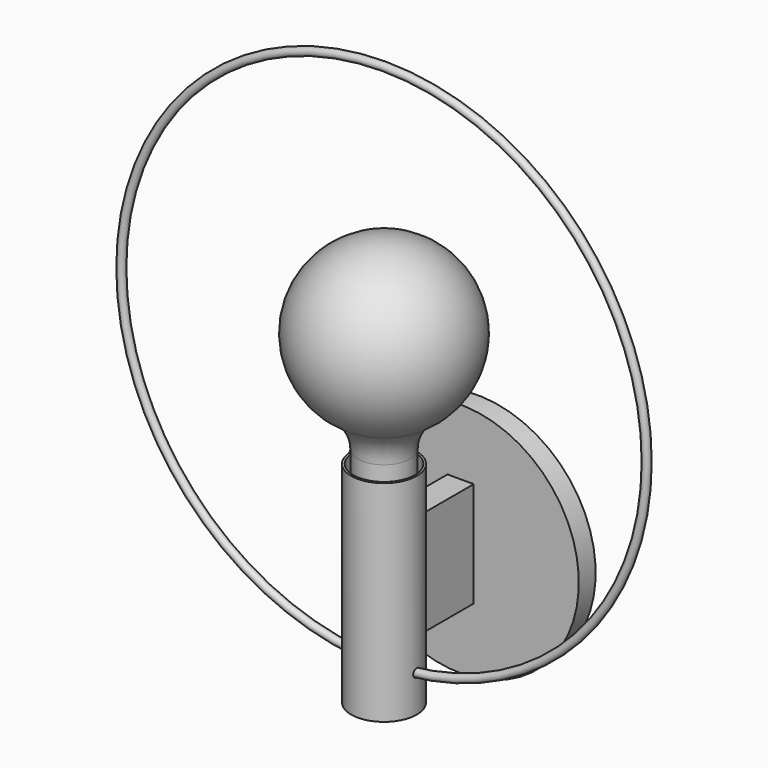
from build123d import *

# Parameters (mm, degrees)
F0_R           = 15.875
F0_R_2         = 14.859
F1_DEPTH       = 101.6
F2_DEPTH       = 21.59
F5_R           = 2.032
F6_DEPTH       = 39.6885
F6_DEPTH_BACK  = 39.6885
F8_R           = 1.905
F12_DEPTH      = 25.4
F12_DEPTH_BACK = 25.4


with BuildPart() as f1:
    # F0 (on Top) → F1 (new body)
    with BuildSketch(Plane.XY):
        Circle(F0_R)
        Circle(F0_R_2, mode=Mode.SUBTRACT)
    extrude(amount=F1_DEPTH)


with BuildPart() as f2:
    # F0 (on Top) → F2 (new body)
    with BuildSketch(Plane.XY):
        Circle(F0_R_2)
    extrude(amount=F2_DEPTH)


with BuildPart() as f4:
    # F3 (on Front) → F4 (revolve)
    with BuildSketch(Plane.XZ):
        with BuildLine():
            Line((0, 76.2), (0, 196.85))
            ThreePointArc((0, 196.85), (-38.080543697, 168.3414913675), (-21.4527027027, 123.7726931273))
            ThreePointArc((-21.4527027027, 123.7726931273), (-15.0307593846, 116.8762754651), (-12.7, 107.7455858283))
            Line((-12.7, 107.7455858283), (-12.7, 76.2))
            Line((-12.7, 76.2), (0, 76.2))
        make_face()
    revolve(axis=Axis((0, 0, 136.525), (0, 0, -1)))


with BuildPart() as f6_tool:
    # F5 (on Right) → F6 (new body, two sides)
    with BuildSketch(Plane.YZ) as f6_sk:
        with Locations((0, 17.78)):
            Circle(F5_R)
    extrude(amount=-F6_DEPTH)
    extrude(f6_sk.sketch, amount=F6_DEPTH_BACK)


with BuildPart() as f1_1:
    add(f1.part)

    # F6: cut by f6_tool
    add(f6_tool.part, mode=Mode.SUBTRACT)


with BuildPart() as f2_1:
    add(f2.part)

    # F6: cut by f6_tool
    add(f6_tool.part, mode=Mode.SUBTRACT)


with BuildPart() as f9:
    # F9: sweep along a path in F7
    with BuildLine(Plane.XZ) as f9_path:
        CenterArc((0, 143.7839062312), 127, 0, 360)
    # F8 (on Right) → F9 (sweep)
    with BuildSketch(Plane.YZ):
        with Locations((0, 16.7839062312)):
            Circle(F8_R)
    sweep(path=f9_path.line)


with BuildPart() as f12:
    # F11 (on mid) → F12 (new body, two sides)
    with BuildSketch(Plane.XY.offset(50.8)) as f12_sk:
        with BuildLine():
            ThreePointArc((-6.35, 14.5496778315), (0, 15.875), (6.35, 14.5496778315))
            Line((6.35, 14.5496778315), (6.35, 46.2996778315))
            Line((6.35, 46.2996778315), (-6.35, 46.2996778315))
            Line((-6.35, 46.2996778315), (-6.35, 14.5496778315))
        make_face()
    extrude(amount=F12_DEPTH)
    extrude(f12_sk.sketch, amount=-F12_DEPTH_BACK)


with BuildPart() as f14:
    # F13 (on mid) → F14 (revolve)
    with BuildSketch(Plane.XY.offset(50.8)):
        Polygon((-57.15, 46.2996778315), (0, 46.2996778315), (0, 47.3156778315), (-56.134, 47.3156778315), (-56.134, 56.4596778315), (-57.15, 56.4596778315), align=None)
    revolve(axis=Axis((0, 46.8076778315, 50.8), (0, -1, 0)))


solid = Compound([f4.part, f1_1.part, f2_1.part, f9.part, f12.part, f14.part])
